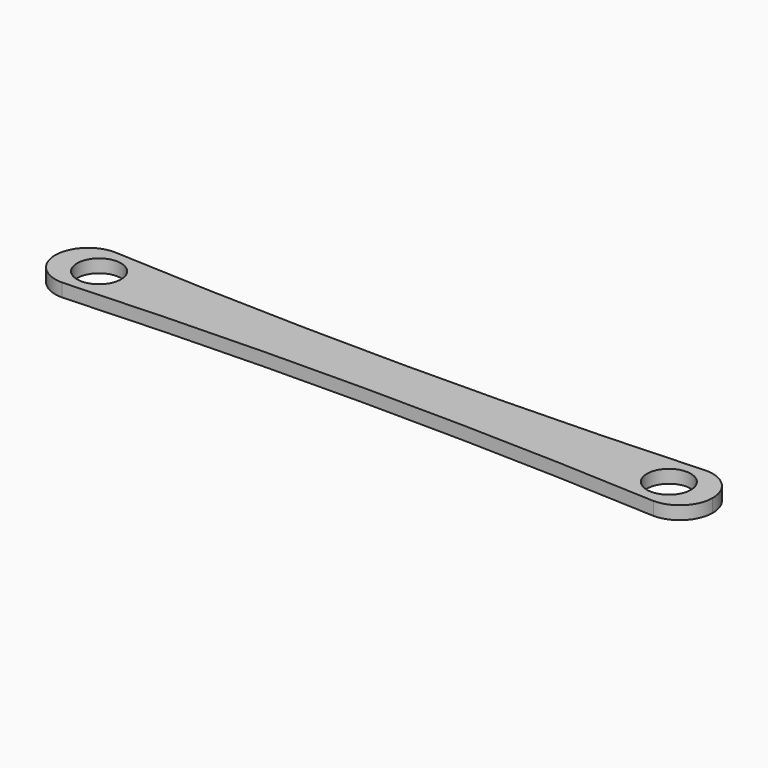
from build123d import *

# Parameters (mm, degrees)
F0_R     = 2
F1_DEPTH = 1.2


with BuildPart() as f1:
    # F0 (on Top) → F1 (new body)
    with BuildSketch(Plane.XY):
        with BuildLine():
            ThreePointArc((27, 3), (0, 2.270468), (-27, 3))
            ThreePointArc((-27, 3), (-29.12132, 2.12132), (-30, 0))
            ThreePointArc((-30, 0), (-29.12132, -2.12132), (-27, -3))
            ThreePointArc((-27, -3), (0, -2.270468), (27, -3))
            ThreePointArc((27, -3), (29.12132, -2.12132), (30, 0))
            ThreePointArc((30, 0), (29.12132, 2.12132), (27, 3))
        make_face()
        with Locations((-26, 0)):
            Circle(F0_R, mode=Mode.SUBTRACT)
        with Locations((26, 0)):
            Circle(F0_R, mode=Mode.SUBTRACT)
    extrude(amount=F1_DEPTH)


solid = f1.part
